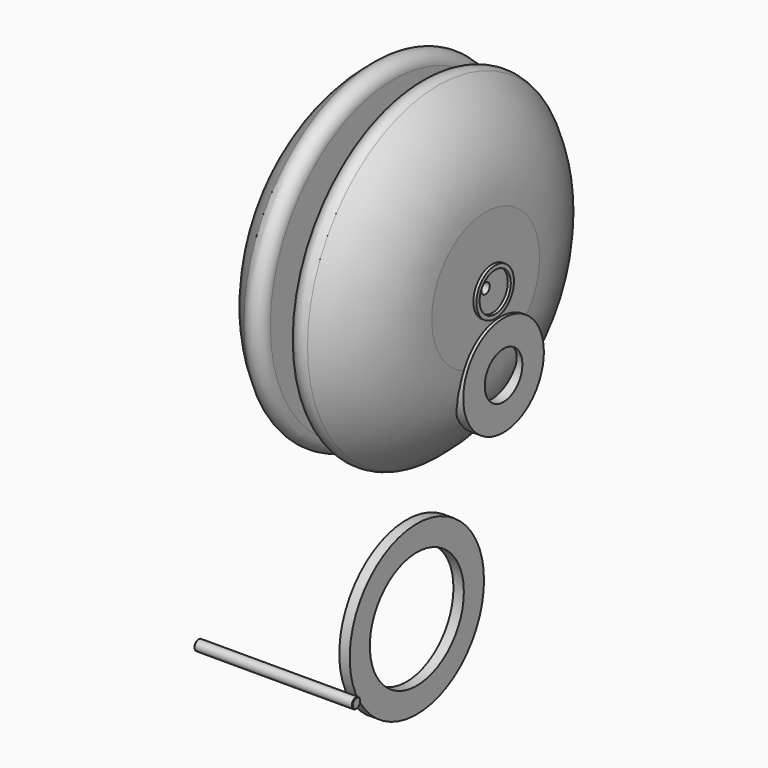
from build123d import *

# Parameters (mm, degrees)
F1_R      = 0.7874
F2_DEPTH  = 23.9522
F3_SIZE   = 0.0889
F8_R      = 7.6236459427
F8_R_2    = 3.553991206
F9_DEPTH  = 1.5748
F11_R     = 3.553991206
F11_R_2   = 2.9499975499
F12_DEPTH = 0.4572
F15_R     = 12.7
F15_R_2   = 8.89
F16_DEPTH = 1.5748
F17_SIZE  = 0.381
F18_SIZE  = 0.381


with BuildPart() as f2:
    # F1 (on Right) → F2 (new body)
    with BuildSketch(Plane.YZ):
        with Locations((-39.3853113055, -35.3657752275)):
            Circle(F1_R)
    extrude(amount=F2_DEPTH)

    # F3
    f3_edges = [f2.edges().sort_by_distance(p)[0] for p in [
        (23.9522, -40.172711, -35.365775),
        (0, -40.172711, -35.365775),
    ]]
    chamfer(f3_edges, length=F3_SIZE)


with BuildPart() as f5:
    # F4 (on Top) → F5 (revolve)
    with BuildSketch(Plane.XY):
        with BuildLine():
            ThreePointArc((-4.810778987, 24.7315437196), (-10.0896592648, 18.3043957243), (-11.9793522448, 10.2047742033))
            Line((-11.9793522448, 10.2047742033), (-11.9793522448, 0.7874))
            Line((-11.9793522448, 0.7874), (-9.3685631268, 0.7874))
            Line((-9.3685631268, 0.7874), (-9.3685631268, 2.1904882131))
            Line((-9.3685631268, 2.1904882131), (-6.0273339317, 2.1904882131))
            Line((-6.0273339317, 2.1904882131), (-6.0273339317, 2.9499975499))
            Line((-6.0273339317, 2.9499975499), (-6.4890715294, 2.9499975499))
            Line((-6.4890715294, 2.9499975499), (-6.4890715294, 3.8395083975))
            Line((-6.4890715294, 3.8395083975), (-5.4311427785, 3.8395083975))
            Line((-5.4311427785, 3.8395083975), (-5.4311427785, 8.89))
            Line((-5.4311427785, 8.89), (-5.9391427785, 8.89))
            Line((-5.9391427785, 8.89), (-5.9391427785, 12.7))
            Line((-5.9391427785, 12.7), (-4.3643427785, 12.7))
            Line((-4.3643427785, 12.7), (-4.3643427785, 9.2077940939))
            Line((-4.3643427785, 9.2077940939), (-4.3643427785, 9.0807940939))
            Line((-4.3643427785, 9.0807940939), (-4.2585514377, 9.0807940939))
            Line((-4.2585514377, 9.0807940939), (-2.6545385182, 9.0807940939))
            Line((-2.6545385182, 9.0807940939), (-2.0781453184, 9.0807940939))
            ThreePointArc((-2.0781453184, 9.0807940939), (-1.9883427572, 9.1179915327), (-1.9511453184, 9.2077940939))
            Line((-1.9511453184, 9.2077940939), (-1.9511453184, 23.3203907843))
            ThreePointArc((-1.9511453184, 23.3203907843), (-2.9423355138, 24.9148230755), (-4.810778987, 24.7315437196))
        make_face()
    revolve(axis=Axis((-17.7333177999, 0, 0), (1, 0, 0)))


with BuildPart() as f6:
    # F0 (on Top) → F6 (revolve)
    with BuildSketch(Plane.XY):
        with BuildLine():
            Line((-1.2490222894, 4.7664048232), (-1.977419908, 7.9493019037))
            ThreePointArc((-1.977419908, 7.9493019037), (-2.0220648047, 8.0202860063), (-2.1012195135, 8.0479706898))
            Line((-2.1012195135, 8.0479706898), (-4.8958676104, 8.0479706898))
            ThreePointArc((-4.8958676104, 8.0479706898), (-4.9856701716, 8.010773251), (-5.0228676104, 7.9209706898))
            Line((-5.0228676104, 7.9209706898), (-5.0228676104, 7.6236459427))
            Line((-5.0228676104, 7.6236459427), (-3.4480676104, 7.6236459427))
            Line((-3.4480676104, 7.6236459427), (-3.4480676104, 3.553991206))
            Line((-3.4480676104, 3.553991206), (-5.0228676104, 3.553991206))
            Line((-5.0228676104, 3.553991206), (-5.0228676104, 2.9499975499))
            Line((-5.0228676104, 2.9499975499), (-5.484605208, 2.9499975499))
            Line((-5.484605208, 2.9499975499), (-5.484605208, 2.3876))
            Line((-5.484605208, 2.3876), (5.484605208, 2.3876))
            Line((5.484605208, 2.3876), (5.484605208, 2.9499975499))
            Line((5.484605208, 2.9499975499), (5.0228676104, 2.9499975499))
            Line((5.0228676104, 2.9499975499), (5.0228676104, 3.553991206))
            Line((5.0228676104, 3.553991206), (3.4480676104, 3.553991206))
            Line((3.4480676104, 3.553991206), (3.4480676104, 7.6236459427))
            Line((3.4480676104, 7.6236459427), (5.0228676104, 7.6236459427))
            Line((5.0228676104, 7.6236459427), (5.0228676104, 7.9209706898))
            ThreePointArc((5.0228676104, 7.9209706898), (4.9856701716, 8.010773251), (4.8958676104, 8.0479706898))
            Line((4.8958676104, 8.0479706898), (2.1012195135, 8.0479706898))
            ThreePointArc((2.1012195135, 8.0479706898), (2.0220648047, 8.0202860063), (1.977419908, 7.9493019037))
            Line((1.977419908, 7.9493019037), (1.2490222894, 4.7664048232))
            ThreePointArc((1.2490222894, 4.7664048232), (1.1234981698, 4.5668250809), (0.9009458546, 4.4889864972))
            Line((0.9009458546, 4.4889864972), (-0.9009458546, 4.4889864972))
            ThreePointArc((-0.9009458546, 4.4889864972), (-1.1234981698, 4.5668250809), (-1.2490222894, 4.7664048232))
        make_face()
    revolve(axis=Axis((2.2696501616, 0, 0), (1, 0, 0)))


with BuildPart() as f7_1:
    # F7: instance of F5
    add(f5.part.mirror(Plane.YZ))

    # F18
    f18_edges = [f7_1.edges().sort_by_distance(p)[0] for p in [
        (5.431143, -3.839508, 0),
    ]]
    chamfer(f18_edges, length=F18_SIZE)


with BuildPart() as f9:
    # F8 (on face) → F9 (new body)
    with BuildSketch(Plane.YZ.offset(3.4480676104)):
        with Locations((2.7884461451, -34.8212644458)):
            Circle(F8_R)
        with Locations((2.7884461451, -34.8212644458)):
            Circle(F8_R_2, mode=Mode.SUBTRACT)
    extrude(amount=F9_DEPTH)


with BuildPart() as f9_1:
    # F10: moved
    add(f9.part.moved(Location((7.4422, 0, 0))))


with BuildPart() as f12:
    # F11 (on face) → F12 (new body)
    with BuildSketch(Plane.YZ.offset(5.0228676104)):
        Circle(F11_R)
        Circle(F11_R_2, mode=Mode.SUBTRACT)
    extrude(amount=F12_DEPTH)


with BuildPart() as f12_1:
    # F13: moved
    add(f12.part.moved(Location((7.9502, 0, 0))))


with BuildPart() as f9_2:
    # F14: moved
    add(f9_1.part.moved(Location((0, 0, 22.2758))))


with BuildPart() as f16:
    # F15 (on Right) → F16 (new body)
    with BuildSketch(Plane.YZ):
        with Locations((0, -47.4184975028)):
            Circle(F15_R)
        with Locations((0, -47.4184975028)):
            Circle(F15_R_2, mode=Mode.SUBTRACT)
    extrude(amount=F16_DEPTH)


with BuildPart() as f5_1:
    add(f5.part)

    # F17
    f17_edges = [f5_1.edges().sort_by_distance(p)[0] for p in [
        (-5.431143, -3.839508, 0),
    ]]
    chamfer(f17_edges, length=F17_SIZE)


solid = Compound([f2.part, f6.part, f7_1.part, f12_1.part, f9_2.part, f16.part, f5_1.part])
